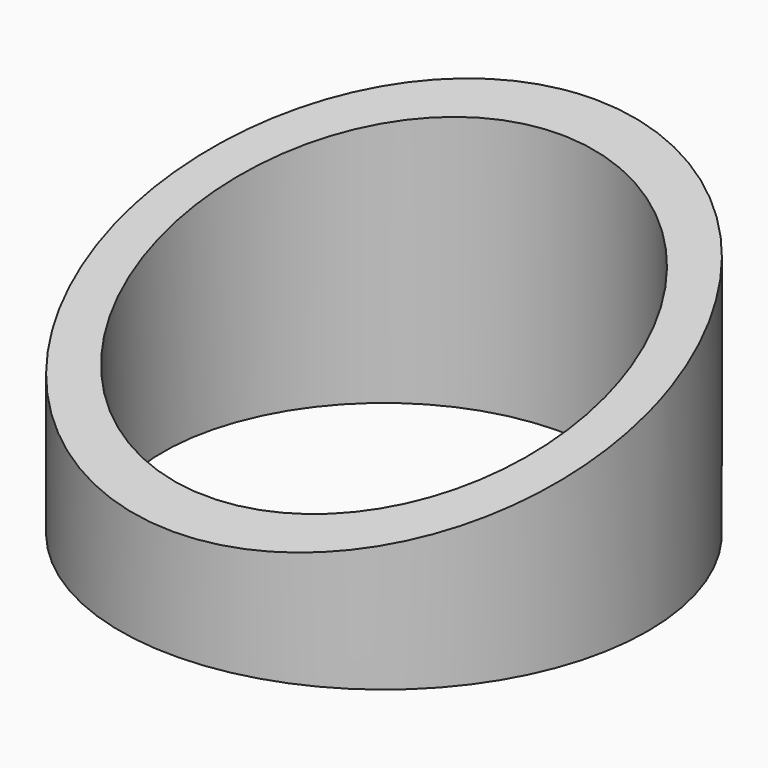
from build123d import *

# Parameters (mm, degrees)
F0_R     = 40
F0_R_2   = 33.5
F1_DEPTH = 20.85
F3_DEPTH = 45


with BuildPart() as f1:
    # F0 (on Top) → F1 (new body, symmetric)
    with BuildSketch(Plane.XY):
        Circle(F0_R)
        Circle(F0_R_2, mode=Mode.SUBTRACT)
    extrude(amount=F1_DEPTH, both=True)

    # F2 (on Right) → F3 (cut, symmetric)
    with BuildSketch(Plane.YZ):
        Polygon((-40, -4.327859), (40, 20.85), (-40, 20.85), align=None)
    extrude(amount=F3_DEPTH, both=True, mode=Mode.SUBTRACT)


solid = f1.part
